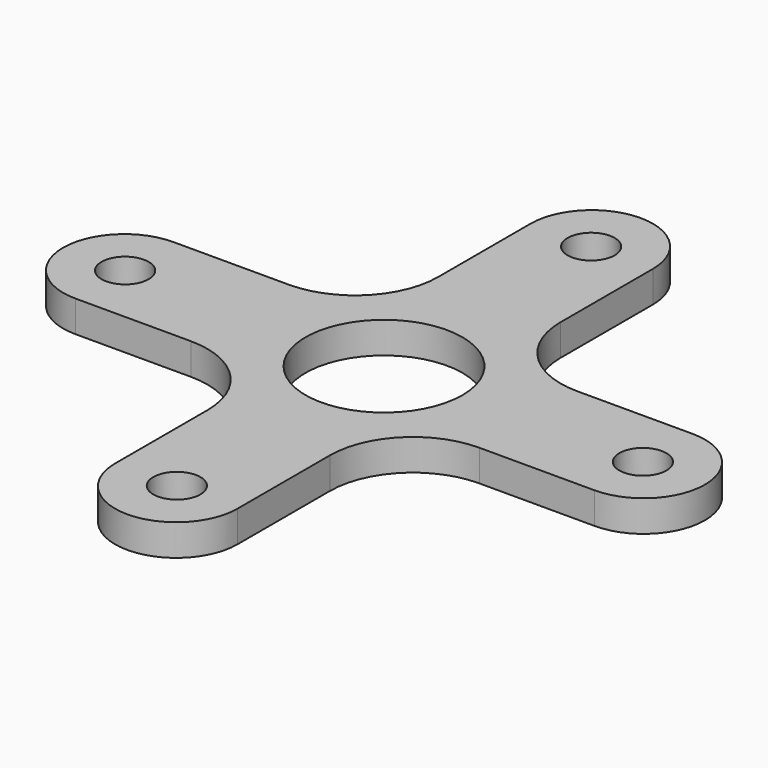
from build123d import *

# Parameters (mm, degrees)
SKETCH_R   = 5
SKETCH_R_2 = 1.5
PAD_DEPTH  = 2


with BuildPart() as part:
    # Sketch → Pad (new body)
    with BuildSketch(Plane.XY):
        with BuildLine():
            ThreePointArc((-16.546601, 3.9), (-20.446601, 0), (-16.546601, -3.9))
            Line((-16.546601, -3.9), (-9.192388, -3.9))
            ThreePointArc((-3.9, -9.192388), (-5.450105, -5.450105), (-9.192388, -3.9))
            Line((-3.9, -16.546601), (-3.9, -9.192388))
            ThreePointArc((-3.9, -16.546601), (0, -20.446601), (3.9, -16.546601))
            Line((3.9, -16.546601), (3.9, -9.192388))
            ThreePointArc((9.192388, -3.9), (5.450105, -5.450105), (3.9, -9.192388))
            Line((16.546601, -3.9), (9.192388, -3.9))
            ThreePointArc((16.546601, -3.9), (20.446601, 0), (16.546601, 3.9))
            Line((16.546601, 3.9), (9.192388, 3.9))
            ThreePointArc((3.9, 9.192388), (5.450105, 5.450105), (9.192388, 3.9))
            Line((3.9, 16.546601), (3.9, 9.192388))
            ThreePointArc((3.9, 16.546601), (0, 20.446601), (-3.9, 16.546601))
            Line((-3.9, 16.546601), (-3.9, 9.192388))
            ThreePointArc((-9.192388, 3.9), (-5.450105, 5.450105), (-3.9, 9.192388))
            Line((-16.546601, 3.9), (-9.192388, 3.9))
        make_face()
        Circle(SKETCH_R, mode=Mode.SUBTRACT)
        with Locations((0, 16.5)):
            Circle(SKETCH_R_2, mode=Mode.SUBTRACT)
        with Locations((16.5, 0)):
            Circle(SKETCH_R_2, mode=Mode.SUBTRACT)
        with Locations((0, -16.5)):
            Circle(SKETCH_R_2, mode=Mode.SUBTRACT)
        with Locations((-16.5, 0)):
            Circle(SKETCH_R_2, mode=Mode.SUBTRACT)
    extrude(amount=-PAD_DEPTH)


solid = part.part
